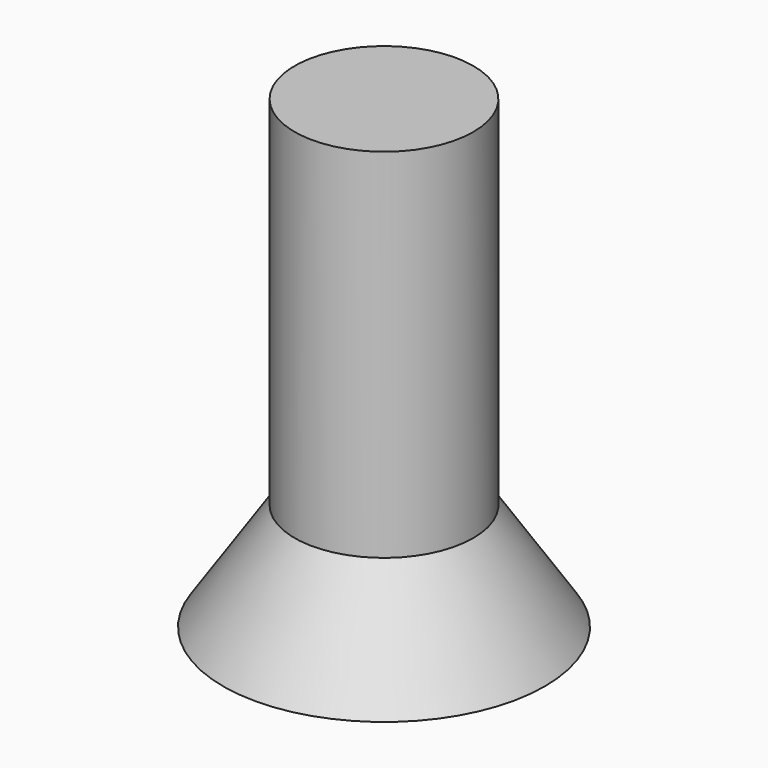
from build123d import *

# Parameters (mm, degrees)
CYLINDER001_R     = 2.5
CYLINDER001_DEPTH = 10


with BuildPart() as cone001:
    # Cone001 → Cone001 (revolve)
    with BuildSketch(Plane(origin=(0, 0, -3), x_dir=(1, 0, 0), z_dir=(0, -1, 0))):
        Polygon((0, 0), (4.5, 0), (2.5, 3), (0, 3), align=None)
    revolve(axis=Axis((0, 0, -3), (0, 0, 1)))


with BuildPart() as obj1:
    # Cylinder001 → Cylinder001 (new body)
    with BuildSketch(Plane.XY):
        Circle(CYLINDER001_R)
    extrude(amount=CYLINDER001_DEPTH)

    # Fusion001: union Cone001
    add(cone001.part)


solid = obj1.part
